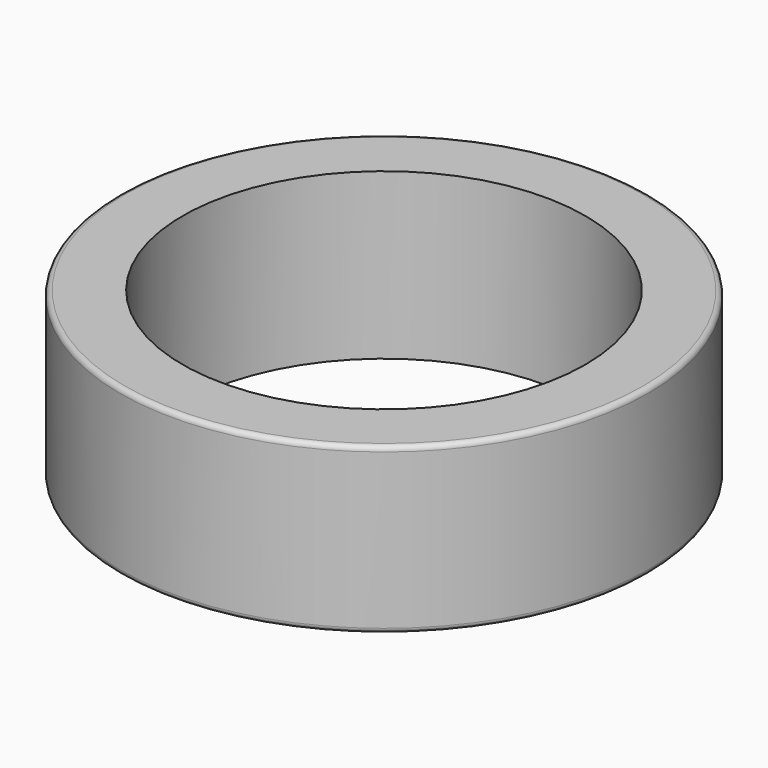
from build123d import *

# Parameters (mm, degrees)
CYLINDER002_R     = 6.1
CYLINDER002_DEPTH = 5
CYLINDER_R        = 8
CYLINDER_DEPTH    = 5
FILLET001_R       = 0.15


with BuildPart() as cilindro:
    # Cylinder002 → Cylinder002 (new body)
    with BuildSketch(Plane.XY):
        Circle(CYLINDER002_R)
    extrude(amount=CYLINDER002_DEPTH)


with BuildPart() as fillet001:
    # Cylinder → Cylinder (new body)
    with BuildSketch(Plane.XY):
        Circle(CYLINDER_R)
    extrude(amount=CYLINDER_DEPTH)

    # Cut: cut Cilindro
    add(cilindro.part, mode=Mode.SUBTRACT)

    # Fillet001
    fillet001_edges = [fillet001.edges().sort_by_distance(p)[0] for p in [
        (-8, 0, 0),
        (-8, 0, 5),
    ]]
    fillet(fillet001_edges, radius=FILLET001_R)


solid = fillet001.part
